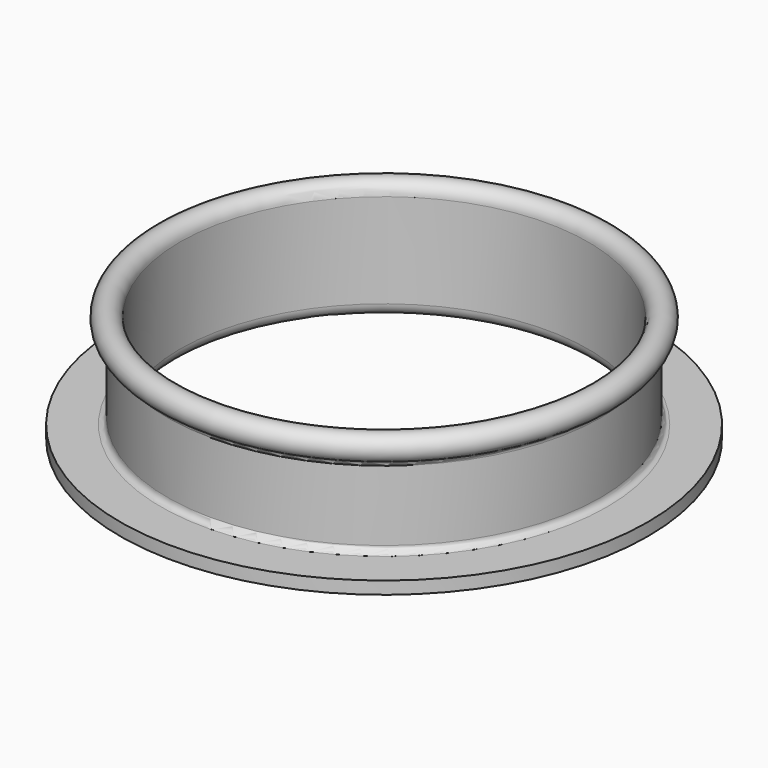
from build123d import *

# Parameters (mm, degrees)
F0_R     = 42
F0_R_2   = 36.5
F1_DEPTH = 2


with BuildPart() as f1:
    # F0 (on Top) → F1 (new body)
    with BuildSketch(Plane.XY):
        Circle(F0_R)
        Circle(F0_R_2, mode=Mode.SUBTRACT)
    extrude(amount=F1_DEPTH)

    # F2 (on Front) → F3 (revolve)
    with BuildSketch(Plane.XZ):
        with BuildLine():
            Line((36.5, 0), (36.5, 2))
            Line((36.5, 2), (35.5, 2))
            ThreePointArc((35.5, 2), (34.792893, 2.292893), (34.5, 3))
            Line((34.5, 3), (34.5, 14.171573))
            ThreePointArc((34.5, 14.171573), (34.683503, 14.748923), (35.166667, 15.114382))
            ThreePointArc((35.166667, 15.114382), (35.654701, 18.632993), (32.5, 17))
            Line((32.5, 17), (32.5, 2))
            ThreePointArc((32.5, 2), (33.085786, 0.585786), (34.5, 0))
            Line((34.5, 0), (36.5, 0))
        make_face()
    revolve(axis=Axis((0, 0, 63.554913), (0, 0, 1)))


solid = f1.part
